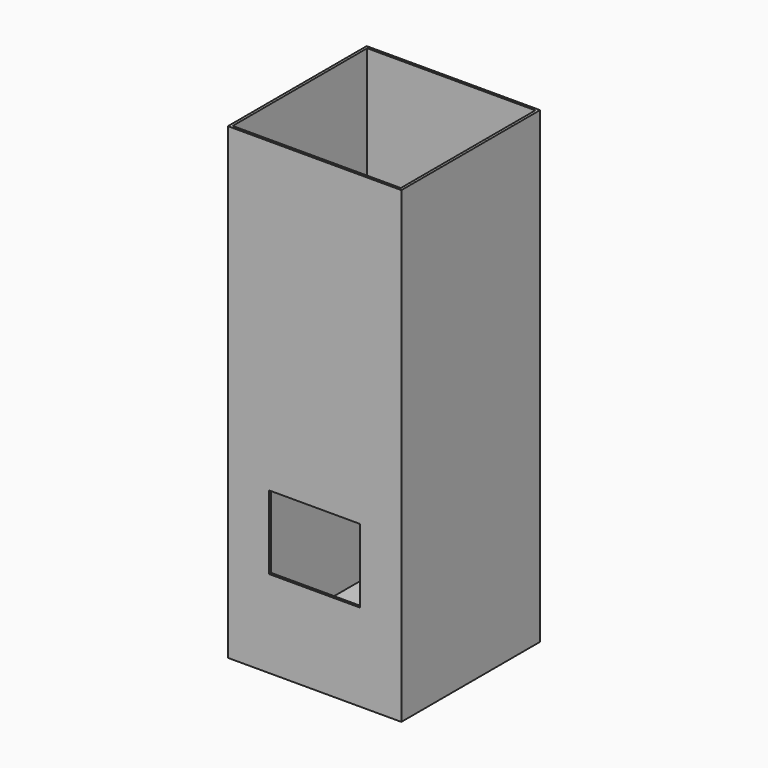
from build123d import *

# Parameters (mm, degrees)
F0_W     = 388
F0_H     = 388
F1_DEPTH = 6
F0_W_2   = 400
F0_H_2   = 400
F2_DEPTH = 1080
F3_W     = 210
F3_H     = 170
F4_DEPTH = 25


with BuildPart() as f1:
    # F0 (on Top) → F1 (new body)
    with BuildSketch(Plane.XY):
        Rectangle(F0_W, F0_H)
    extrude(amount=F1_DEPTH)

    # F0 (on Top) → F2 (join)
    with BuildSketch(Plane.XY):
        Rectangle(F0_W_2, F0_H_2)
        Rectangle(F0_W, F0_H, mode=Mode.SUBTRACT)
    extrude(amount=F2_DEPTH)

    # F3 (on face) → F4 (cut)
    with BuildSketch(Plane.XZ.offset(200)):
        with Locations((0, 286.11201)):
            Rectangle(F3_W, F3_H)
    extrude(amount=-F4_DEPTH, mode=Mode.SUBTRACT)


solid = f1.part
